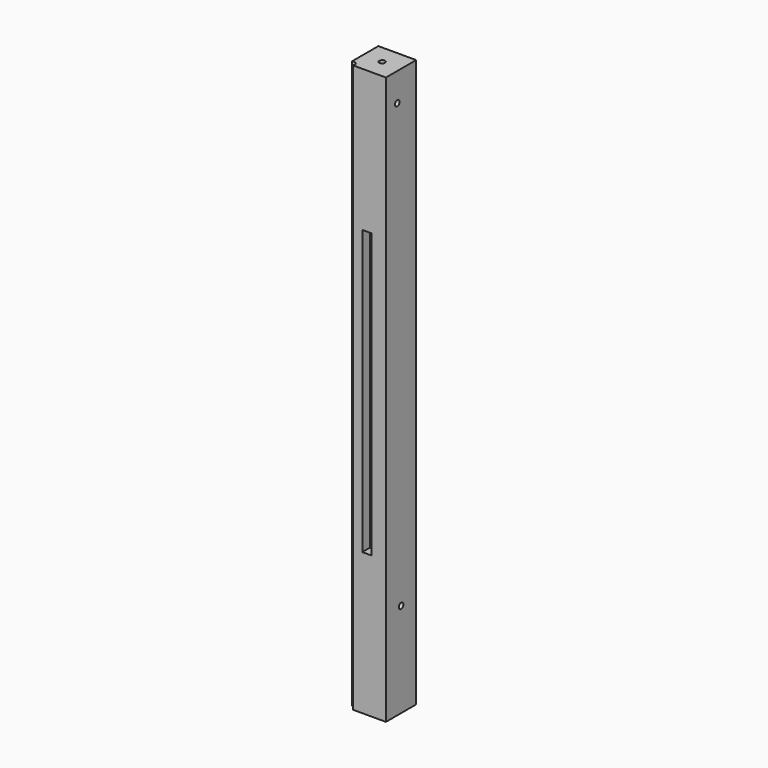
from build123d import *

# Parameters (mm, degrees)
F0_W      = 40
F0_H      = 40
F1_DEPTH  = 600
F2_R      = 3
F3_DEPTH  = 12
F4_R      = 3
F5_DEPTH  = 12
F7_DEPTH  = 600
F8_R      = 3
F9_DEPTH  = 12
F10_DEPTH = 12
F11_R     = 3
F12_DEPTH = 12
F13_R     = 3
F14_DEPTH = 12
F16_W     = 10
F16_H     = 10
F17_DEPTH = 300
F18_DEPTH = 300


with BuildPart() as f1:
    # F0 (on Top) → F1 (new body)
    with BuildSketch(Plane.XY):
        with Locations((-32.4728810042, 32.3857110739)):
            Rectangle(F0_W, F0_H)
    extrude(amount=F1_DEPTH)

    # F2 (on face) → F3 (cut)
    with BuildSketch(Plane.YZ.offset(-12.4728810042)):
        with Locations((27.3857110739, 570)):
            Circle(F2_R)
    extrude(amount=-F3_DEPTH, mode=Mode.SUBTRACT)

    # F4 (on face) → F5 (cut)
    with BuildSketch(Plane(origin=(0, 52.3857110739, 0), x_dir=(-1, 0, 0), z_dir=(0, 1, 0))):
        with Locations((37.4728810042, 570)):
            Circle(F4_R)
    extrude(amount=-F5_DEPTH, mode=Mode.SUBTRACT)

    # F6 (on face) → F7 (cut)
    with BuildSketch(Plane.XY.offset(600)):
        with BuildLine():
            ThreePointArc((-47.5474812124, 12.3857110739), (-47.0872668168, 13.3390112528), (-46.9291592401, 14.3857110739))
            ThreePointArc((-46.9291592401, 14.3857110739), (-48.8190187951, 17.5198303656), (-52.4728810042, 17.3111108656))
            Line((-52.4728810042, 17.3111108656), (-52.4728810042, 12.3857110739))
            Line((-52.4728810042, 12.3857110739), (-47.5474812124, 12.3857110739))
        make_face()
    extrude(amount=-F7_DEPTH, mode=Mode.SUBTRACT)

    # F8 (on face) → F9 (cut)
    with BuildSketch(Plane.XY.offset(600)):
        with Locations((-32.4728810042, 32.3857110739)):
            Circle(F8_R)
    extrude(amount=-F9_DEPTH, mode=Mode.SUBTRACT)

    # F4 (on face) → F10 (cut)
    with BuildSketch(Plane(origin=(0, 52.3857110739, 0), x_dir=(-1, 0, 0), z_dir=(0, 1, 0))):
        with Locations((32.4728810042, 450)):
            Circle(F4_R)
    extrude(amount=-F10_DEPTH, mode=Mode.SUBTRACT)

    # F11 (on face) → F12 (cut)
    with BuildSketch(Plane(origin=(0, 52.3857110739, 0), x_dir=(-1, 0, 0), z_dir=(0, 1, 0))):
        with Locations((32.4728810042, 150)):
            Circle(F11_R)
    extrude(amount=-F12_DEPTH, mode=Mode.SUBTRACT)

    # F13 (on face) → F14 (cut)
    with BuildSketch(Plane.YZ.offset(-12.4728810042)):
        with Locations((32.3857110739, 100)):
            Circle(F13_R)
    extrude(amount=-F14_DEPTH, mode=Mode.SUBTRACT)

    # F16 (on offset) → F17 (cut)
    with BuildSketch(Plane.XY.offset(450)):
        with Locations((-47.4728810042, 32.3857110739)):
            Rectangle(F16_W, F16_H)
    extrude(amount=-F17_DEPTH, mode=Mode.SUBTRACT)

    # F16 (on offset) → F18 (cut)
    with BuildSketch(Plane.XY.offset(450)):
        with Locations((-32.4728810042, 17.3857110739)):
            Rectangle(F16_W, F16_H)
    extrude(amount=-F18_DEPTH, mode=Mode.SUBTRACT)


solid = f1.part
